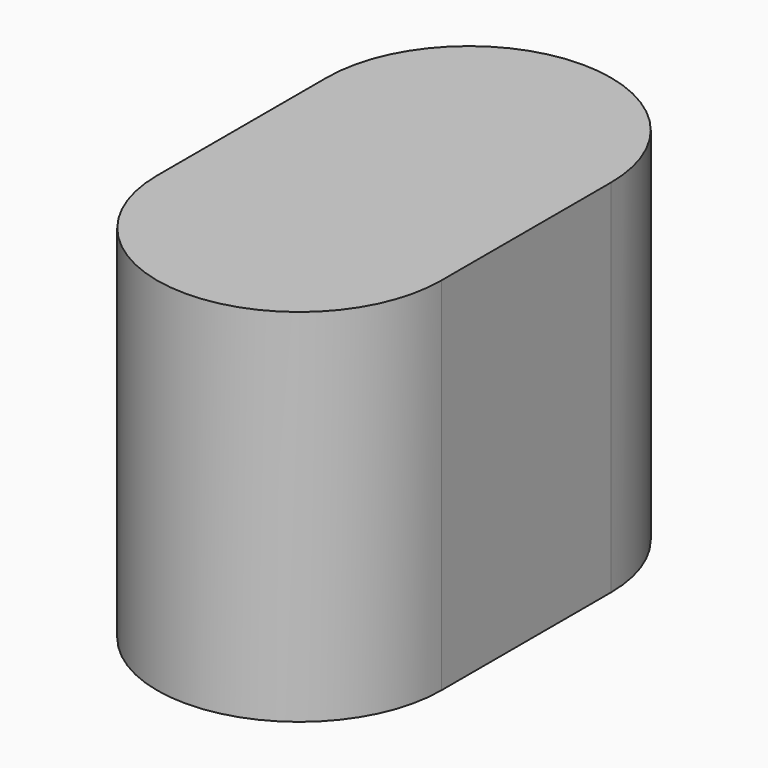
from build123d import *

# Parameters (mm, degrees)
F1_DEPTH = 3
F2_DEPTH = 34
F4_DEPTH = 3


with BuildPart() as f1:
    # F0 (on Top) → F1 (new body)
    with BuildSketch(Plane.XY):
        with BuildLine():
            Line((15.75, -23.5), (15.75, 0))
            ThreePointArc((15.75, 0), (0, 15.75), (-15.75, 0))
            Line((-15.75, 0), (-15.75, -23.5))
            ThreePointArc((-15.75, -23.5), (0, -39.25), (15.75, -23.5))
        make_face()
        with BuildLine():
            ThreePointArc((-12.75, 0), (0, 12.75), (12.75, 0))
            Line((12.75, 0), (12.75, -23.5))
            ThreePointArc((12.75, -23.5), (0, -36.25), (-12.75, -23.5))
            Line((-12.75, -23.5), (-12.75, 0))
        make_face(mode=Mode.SUBTRACT)
        with BuildLine():
            ThreePointArc((-12.75, 0), (0, -12.75), (12.75, 0))
            ThreePointArc((12.75, 0), (0, 12.75), (-12.75, 0))
        make_face()
        with BuildLine():
            Line((12.75, -23.5), (12.75, 0))
            ThreePointArc((12.75, 0), (0, -12.75), (-12.75, 0))
            Line((-12.75, 0), (-12.75, -23.5))
            ThreePointArc((-12.75, -23.5), (0, -36.25), (12.75, -23.5))
        make_face()
    extrude(amount=F1_DEPTH)

    # F0 (on Top) → F2 (join)
    with BuildSketch(Plane.XY):
        with BuildLine():
            Line((15.75, -23.5), (15.75, 0))
            ThreePointArc((15.75, 0), (0, 15.75), (-15.75, 0))
            Line((-15.75, 0), (-15.75, -23.5))
            ThreePointArc((-15.75, -23.5), (0, -39.25), (15.75, -23.5))
        make_face()
        with BuildLine():
            ThreePointArc((-12.75, 0), (0, 12.75), (12.75, 0))
            Line((12.75, 0), (12.75, -23.5))
            ThreePointArc((12.75, -23.5), (0, -36.25), (-12.75, -23.5))
            Line((-12.75, -23.5), (-12.75, 0))
        make_face(mode=Mode.SUBTRACT)
    extrude(amount=-F2_DEPTH)

    # F3 (on face) → F4 (join)
    with BuildSketch(Plane(origin=(0, 0, -34), x_dir=(1, 0, 0), z_dir=(0, 0, -1))):
        with BuildLine():
            ThreePointArc((-15.75, 0), (0, -15.75), (15.75, 0))
            Line((15.75, 0), (15.75, 23.5))
            ThreePointArc((15.75, 23.5), (0, 39.25), (-15.75, 23.5))
            Line((-15.75, 23.5), (-15.75, 0))
        make_face()
        with BuildLine():
            Line((-14.35, 0), (-14.35, 23.5))
            ThreePointArc((-14.35, 23.5), (0, 37.85), (14.35, 23.5))
            Line((14.35, 23.5), (14.35, 0))
            ThreePointArc((14.35, 0), (0, -14.35), (-14.35, 0))
        make_face(mode=Mode.SUBTRACT)
    extrude(amount=F4_DEPTH)


solid = f1.part
